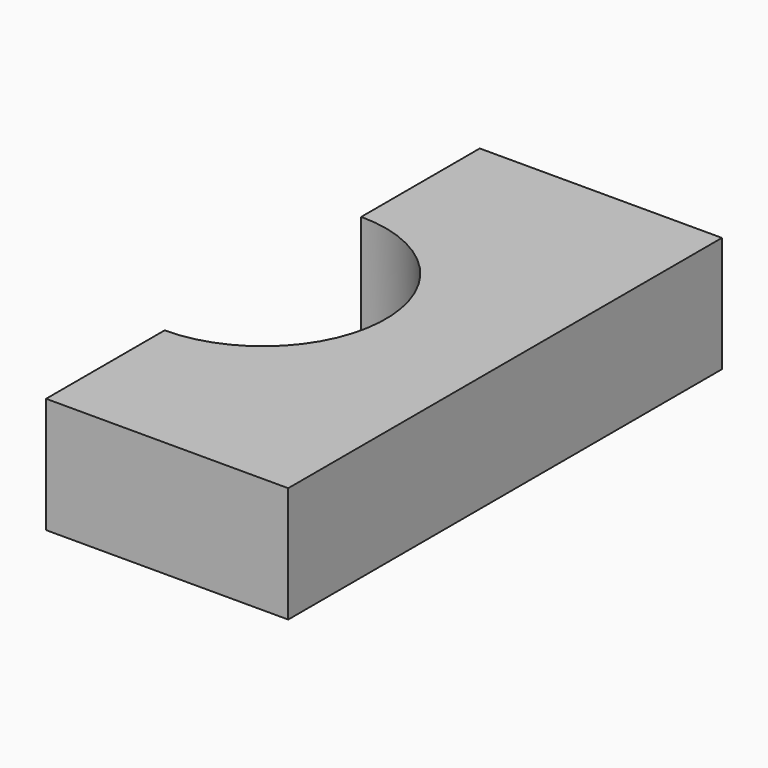
from build123d import *

# Parameters (mm, degrees)
F0_W     = 67
F0_H     = 150
F2_DEPTH = 32
F3_R     = 34
F4_DEPTH = 32
F1_R     = 12
F5_DEPTH = 15


with BuildPart() as f2:
    # F0 (on Top) → F2 (new body)
    with BuildSketch(Plane.XY):
        with Locations((-38.256745, -75)):
            Rectangle(F0_W, F0_H)
    extrude(amount=F2_DEPTH)

    # F3 (on face) → F4 (cut)
    with BuildSketch(Plane.XY.offset(32)):
        with Locations((-71.756745, -75)):
            Circle(F3_R)
    extrude(amount=-F4_DEPTH, mode=Mode.SUBTRACT)

    # F1 (on face) → F5 (cut)
    with BuildSketch(Plane.XY):
        with Locations((-24.756745, -20)):
            Circle(F1_R)
        with Locations((-24.756745, -130)):
            Circle(F1_R)
    extrude(amount=F5_DEPTH, mode=Mode.SUBTRACT)


solid = f2.part
